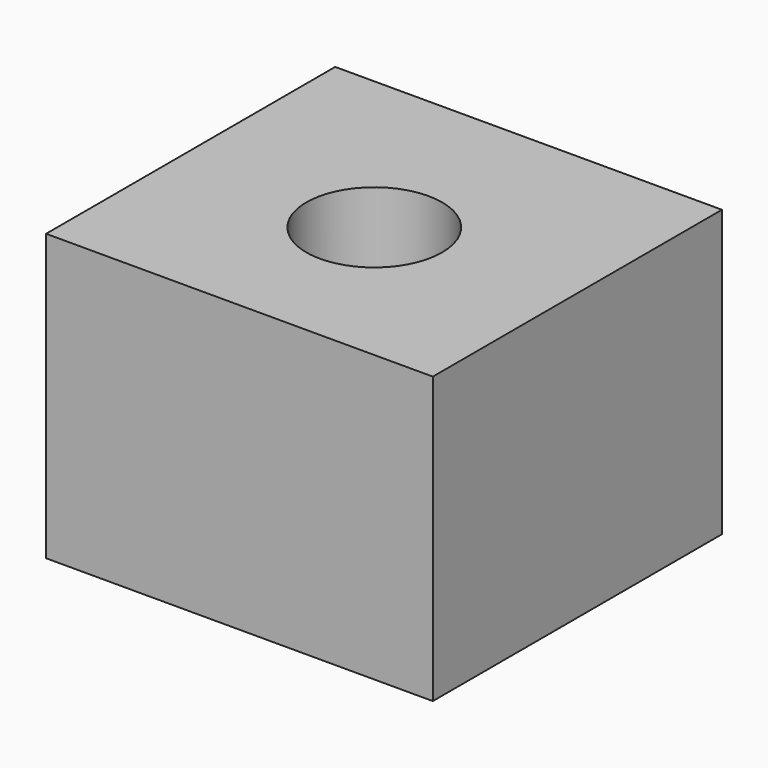
from build123d import *

# Parameters (mm, degrees)
F0_W     = 81.543564
F0_H     = 60.235682
F1_DEPTH = 76.2
F2_R     = 14.31333
F3_DEPTH = 63.5


with BuildPart() as f1:
    # F0 (on Front) → F1 (new body)
    with BuildSketch(Plane.XZ):
        Rectangle(F0_W, F0_H)
    extrude(amount=F1_DEPTH)

    # F2 (on face) → F3 (cut, symmetric)
    with BuildSketch(Plane.XY.offset(30.117841)):
        with Locations((0, -40.668592)):
            Circle(F2_R)
    extrude(amount=F3_DEPTH, both=True, mode=Mode.SUBTRACT)


solid = f1.part
